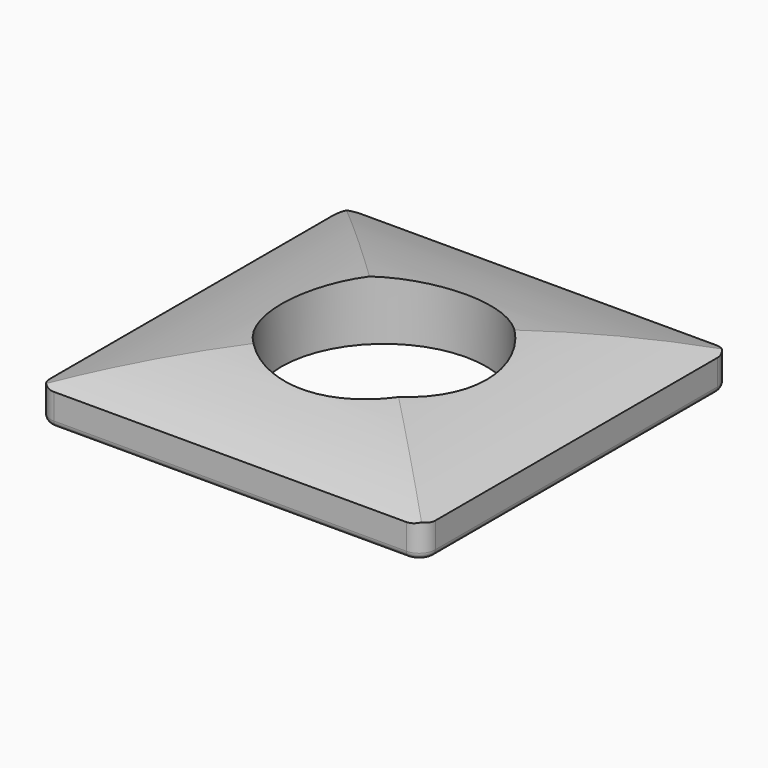
from build123d import *

# Parameters (mm, degrees)
SKETCH014_W     = 6
SKETCH014_H     = 6
SKETCH014_R     = 1.6
PAD004_DEPTH    = 1
POCKET009_DEPTH = 6.001
POCKET010_DEPTH = 6
FILLET004_R     = 0.25
FILLET005_R     = 0.1


with BuildPart() as part:
    # Sketch014 → Pad004 (new body)
    with BuildSketch(Plane(origin=(8.25, 0, 8.5), x_dir=(1, 0, 0), z_dir=(0, 0, 1))):
        with Locations((-4.125, 0)):
            Rectangle(SKETCH014_W, SKETCH014_H)
        with Locations((-4.125, 0)):
            Circle(SKETCH014_R, mode=Mode.SUBTRACT)
    extrude(amount=PAD004_DEPTH)

    # Sketch015 → Pocket009 (cut, through all)
    with BuildSketch(Plane(origin=(8.25, -3, 8.5), x_dir=(1, 0, 0), z_dir=(0, -1, 0))):
        with BuildLine():
            ThreePointArc((-1.125, 0.5), (-4.125, 1), (-7.125, 0.5))
            Line((-7.94919, 0.5), (-7.125, 0.5))
            Line((-7.94919, 2.29429), (-7.94919, 0.5))
            Line((-7.94919, 2.29429), (-0.30081, 2.29429))
            Line((-0.30081, 2.29429), (-0.30081, 0.5))
            Line((-0.30081, 0.5), (-1.125, 0.5))
        make_face()
    extrude(amount=-POCKET009_DEPTH, mode=Mode.SUBTRACT)

    # Sketch016 → Pocket010 (cut)
    with BuildSketch(Plane(origin=(7.125, 0, 8.5), x_dir=(0, 1, 0), z_dir=(1, 0, 0))):
        with BuildLine():
            ThreePointArc((3, 0.5), (0, 1), (-3, 0.5))
            Line((-3.52138, 0.5), (-3, 0.5))
            Line((-3.52138, 1.495392), (-3.52138, 0.5))
            Line((-3.52138, 1.495392), (3.52138, 1.495392))
            Line((3.52138, 1.495392), (3.52138, 0.5))
            Line((3.52138, 0.5), (3, 0.5))
        make_face()
    extrude(amount=-POCKET010_DEPTH, mode=Mode.SUBTRACT)

    # Fillet004
    fillet004_edges = [part.edges().sort_by_distance(p)[0] for p in [
        (7.125, -3, 8.75),
        (7.125, 3, 8.75),
        (1.125, 3, 8.75),
        (1.125, -3, 8.75),
    ]]
    fillet(fillet004_edges, radius=FILLET004_R)

    # Fillet005
    fillet005_edges = [part.edges().sort_by_distance(p)[0] for p in [
        (4.125, -3, 8.5),
    ]]
    fillet(fillet005_edges, radius=FILLET005_R)


solid = part.part
